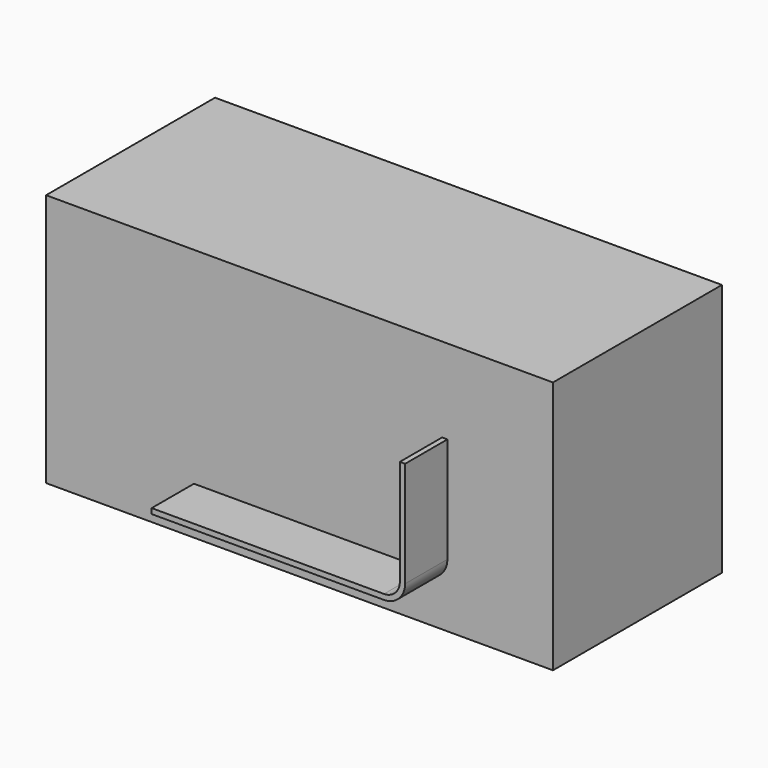
from build123d import *

# Parameters (mm, degrees)
F0_W     = 609.6
F0_H     = 304.8
F1_DEPTH = 127
F3_DEPTH = 63.5


with BuildPart() as f1:
    # F0 (on Front) → F1 (new body, symmetric)
    with BuildSketch(Plane.XZ):
        Rectangle(F0_W, F0_H)
    extrude(amount=F1_DEPTH, both=True)


with BuildPart() as f3:
    # F2 (on face) → F3 (new body)
    with BuildSketch(Plane.XZ.offset(127)):
        with BuildLine():
            Line((177.8, -76.2), (177.8, 50.8))
            Line((177.8, 50.8), (171.450004, 50.8))
            Line((171.450004, 50.8), (171.450004, -76.2))
            ThreePointArc((171.450004, -76.2), (165.870387, -89.670387), (152.4, -95.250004))
            Line((152.4, -95.250004), (-127, -95.250004))
            Line((-127, -95.250004), (-127, -101.6))
            Line((-127, -101.6), (152.4, -101.6))
            ThreePointArc((152.4, -101.6), (170.360512, -94.160512), (177.8, -76.2))
        make_face()
    extrude(amount=F3_DEPTH)


solid = Compound([f1.part, f3.part])
